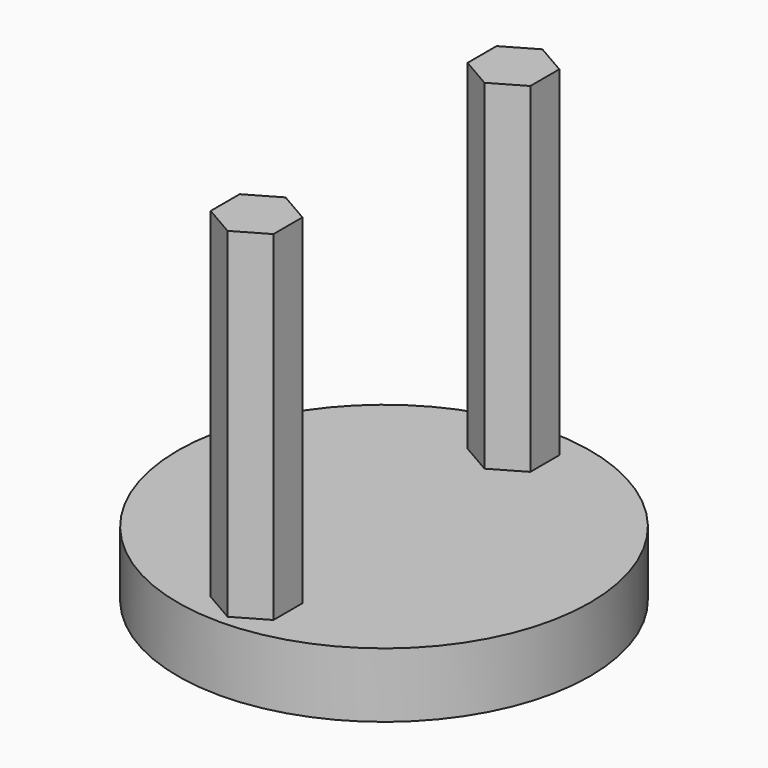
from build123d import *

# Parameters (mm, degrees)
F0_R     = 12.942623
F1_DEPTH = 4.064
F4_DEPTH = 25.4
F5_DEPTH = 25.4


with BuildPart() as f1:
    # F0 (on Top) → F1 (new body)
    with BuildSketch(Plane.XY):
        Circle(F0_R)
    extrude(amount=F1_DEPTH)

    # F2 (on Top) → F4 (join)
    with BuildSketch(Plane.XY):
        Polygon((1.975973, 9.017531), (1.975973, 11.293087), (0.005284, 12.430865), (-1.965406, 11.293087), (-1.965406, 9.017531), (0.005284, 7.879752), align=None)
    extrude(amount=F4_DEPTH)

    # F3 (on face) → F5 (join)
    with BuildSketch(Plane.XY):
        Polygon((1.963999, -11.134515), (1.963999, -8.858958), (-0.006691, -7.72118), (-1.977381, -8.858958), (-1.977381, -11.134515), (-0.006691, -12.272293), align=None)
    extrude(amount=F5_DEPTH)


solid = f1.part
